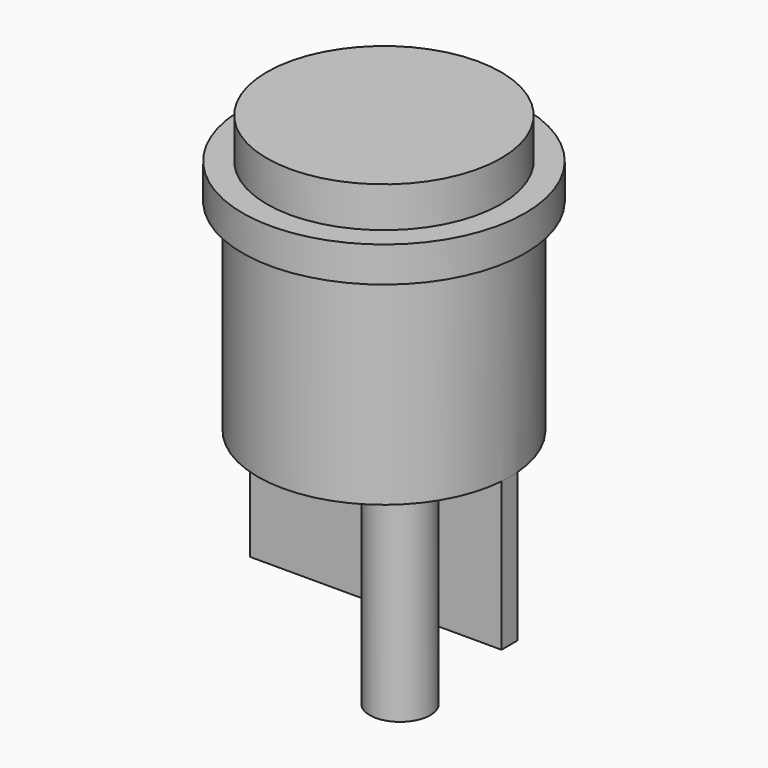
from build123d import *

# Parameters (mm, degrees)
F0_R     = 14
F1_DEPTH = 3.5
F2_R     = 12.5
F3_DEPTH = 20
F4_W     = 24.919872
F4_H     = 2
F5_DEPTH = 14.7
F6_R     = 11.597849
F7_DEPTH = 4
F8_R     = 3
F9_DEPTH = 20


with BuildPart() as f1:
    # F0 (on Top) → F1 (new body)
    with BuildSketch(Plane.XY):
        Circle(F0_R)
    extrude(amount=F1_DEPTH)

    # F2 (on face) → F3 (join)
    with BuildSketch(Plane(origin=(0, 0, 0), x_dir=(1, 0, 0), z_dir=(0, 0, -1))):
        Circle(F2_R)
    extrude(amount=F3_DEPTH)

    # F4 (on face) → F5 (join)
    with BuildSketch(Plane(origin=(0, 0, -20), x_dir=(1, 0, 0), z_dir=(0, 0, -1))):
        Rectangle(F4_W, F4_H)
    extrude(amount=F5_DEPTH)


with BuildPart() as f7:
    # F6 (on face) → F7 (new body)
    with BuildSketch(Plane.XY.offset(3.5)):
        Circle(F6_R)
    extrude(amount=F7_DEPTH)


with BuildPart() as f9:
    # F8 (on face) → F9 (new body)
    with BuildSketch(Plane(origin=(0, 0, -20), x_dir=(1, 0, 0), z_dir=(0, 0, -1))):
        with Locations((5.644933, 5.059424)):
            Circle(F8_R)
    extrude(amount=F9_DEPTH)


solid = Compound([f1.part, f7.part, f9.part])
